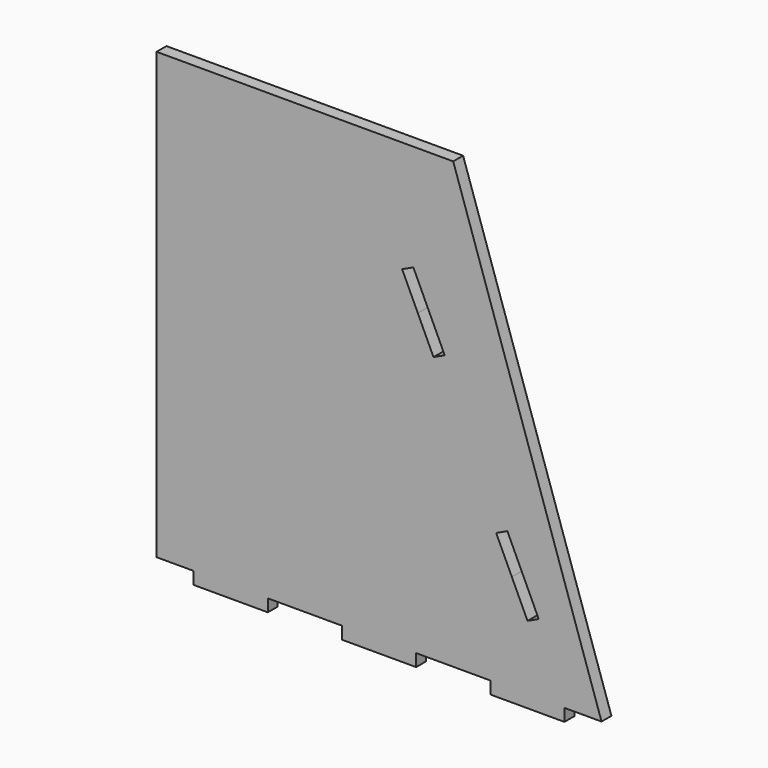
from build123d import *

# Parameters (mm, degrees)
F1_DEPTH = 12.7


with BuildPart() as f1:
    # F0 (on Front) → F1 (new body)
    with BuildSketch(Plane.XZ):
        Polygon((-13.745639, 32.029934), (-318.545639, 32.029934), (-318.545639, -425.170066), (-280.445639, -425.170066), (-280.445639, -437.870066), (-204.245639, -437.870066), (-204.245639, -425.170066), (-128.045639, -425.170066), (-128.045639, -437.870066), (-51.845639, -437.870066), (-51.845639, -425.170066), (24.354361, -425.170066), (24.354361, -437.870066), (100.554361, -437.870066), (100.554361, -425.170066), (138.654361, -425.170066), align=None)
        Polygon((46.494039, -324.262712), (30.392283, -289.732385), (41.902392, -284.365133), (58.004148, -318.89546), (74.105903, -353.425786), (62.595795, -358.793038), align=None, mode=Mode.SUBTRACT)
        Polygon((-54.708143, -77.183173), (-38.606387, -111.7135), (-22.504631, -146.243826), (-34.01474, -151.611078), (-50.116496, -117.080752), (-66.218252, -82.550425), align=None, mode=Mode.SUBTRACT)
    extrude(amount=F1_DEPTH)


solid = f1.part
